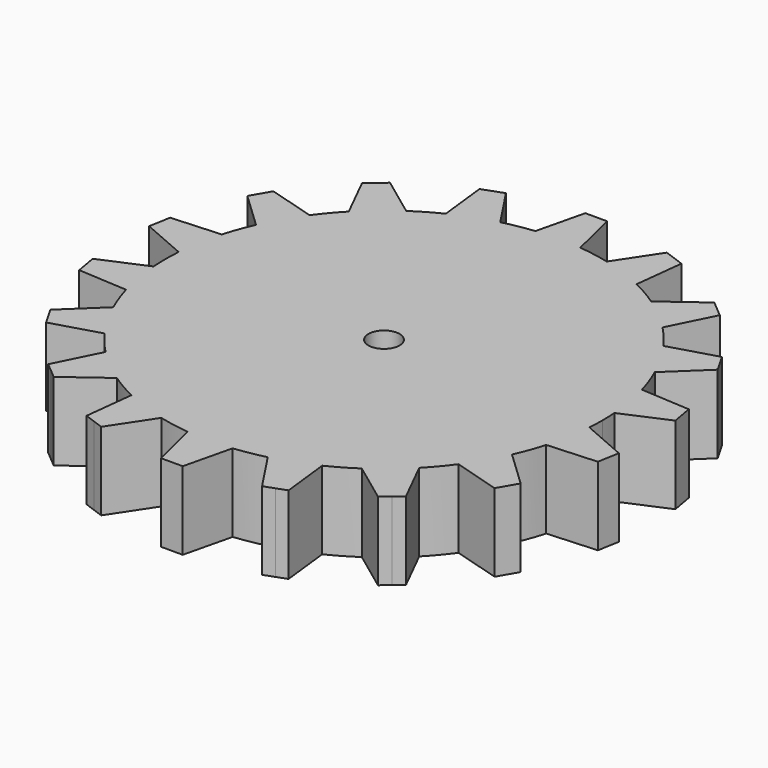
from build123d import *

# Parameters (mm, degrees)
F0_R     = 1
F1_DEPTH = 5


with BuildPart() as f1:
    # F0 (on Top) → F1 (new body)
    with BuildSketch(Plane.XY):
        with BuildLine():
            ThreePointArc((13.964093, -1.002049), (13.99102, -0.501346), (14, 0))
            ThreePointArc((14, 0), (13.99102, 0.501346), (13.964093, 1.002049))
            ThreePointArc((13.964093, 1.002049), (13.787309, 2.431074), (13.464676, 3.834383))
            ThreePointArc((13.464676, 3.834383), (13.155697, 4.788282), (12.779234, 5.717619))
            ThreePointArc((12.779234, 5.717619), (12.124356, 7), (11.341221, 8.208332))
            ThreePointArc((11.341221, 8.208332), (10.724622, 8.999027), (10.053011, 9.74356))
            ThreePointArc((10.053011, 9.74356), (8.999027, 10.724622), (7.849846, 11.592235))
            ThreePointArc((7.849846, 11.592235), (7, 12.124356), (6.114247, 12.594284))
            ThreePointArc((6.114247, 12.594284), (4.788282, 13.155697), (3.411665, 13.577943))
            ThreePointArc((3.411665, 13.577943), (2.431074, 13.787309), (1.438014, 13.925951))
            ThreePointArc((1.438014, 13.925951), (0, 14), (-1.438014, 13.925951))
            ThreePointArc((-1.438014, 13.925951), (-2.431074, 13.787309), (-3.411665, 13.577943))
            ThreePointArc((-3.411665, 13.577943), (-4.788282, 13.155697), (-6.114247, 12.594284))
            ThreePointArc((-6.114247, 12.594284), (-7, 12.124356), (-7.849846, 11.592235))
            ThreePointArc((-7.849846, 11.592235), (-8.999027, 10.724622), (-10.053011, 9.74356))
            ThreePointArc((-10.053011, 9.74356), (-10.724622, 8.999027), (-11.341221, 8.208332))
            ThreePointArc((-11.341221, 8.208332), (-12.124356, 7), (-12.779234, 5.717619))
            ThreePointArc((-12.779234, 5.717619), (-13.155697, 4.788282), (-13.464676, 3.834383))
            ThreePointArc((-13.464676, 3.834383), (-13.787309, 2.431074), (-13.964093, 1.002049))
            ThreePointArc((-13.964093, 1.002049), (-14, 0), (-13.964093, -1.002049))
            ThreePointArc((-13.964093, -1.002049), (-13.787309, -2.431074), (-13.464676, -3.834383))
            ThreePointArc((-13.464676, -3.834383), (-13.155697, -4.788282), (-12.779234, -5.717619))
            ThreePointArc((-12.779234, -5.717619), (-12.124356, -7), (-11.341221, -8.208332))
            ThreePointArc((-11.341221, -8.208332), (-10.724622, -8.999027), (-10.053011, -9.74356))
            ThreePointArc((-10.053011, -9.74356), (-8.999027, -10.724622), (-7.849846, -11.592235))
            ThreePointArc((-7.849846, -11.592235), (-7, -12.124356), (-6.114247, -12.594284))
            ThreePointArc((-6.114247, -12.594284), (-4.788282, -13.155697), (-3.411665, -13.577943))
            ThreePointArc((-3.411665, -13.577943), (-2.431074, -13.787309), (-1.438014, -13.925951))
            ThreePointArc((-1.438014, -13.925951), (0, -14), (1.438014, -13.925951))
            ThreePointArc((1.438014, -13.925951), (2.431074, -13.787309), (3.411665, -13.577943))
            ThreePointArc((3.411665, -13.577943), (4.788282, -13.155697), (6.114247, -12.594284))
            ThreePointArc((6.114247, -12.594284), (7, -12.124356), (7.849846, -11.592235))
            ThreePointArc((7.849846, -11.592235), (8.999027, -10.724622), (10.053011, -9.74356))
            ThreePointArc((10.053011, -9.74356), (10.724622, -8.999027), (11.341221, -8.208332))
            ThreePointArc((11.341221, -8.208332), (12.124356, -7), (12.779234, -5.717619))
            ThreePointArc((12.779234, -5.717619), (13.155697, -4.788282), (13.464676, -3.834383))
            ThreePointArc((13.464676, -3.834383), (13.787309, -2.431074), (13.964093, -1.002049))
        make_face()
        Circle(F0_R, mode=Mode.SUBTRACT)
        with BuildLine():
            Line((15.072432, -7.893782), (12.779234, -5.717619))
            ThreePointArc((12.779234, -5.717619), (12.124356, -7), (11.341221, -8.208332))
            Line((11.341221, -8.208332), (14.372432, -9.106218))
            Line((14.372432, -9.106218), (14.722432, -8.5))
            Line((14.722432, -8.5), (15.072432, -7.893782))
        make_face()
        with BuildLine():
            Line((0.7, -17), (1.438014, -13.925951))
            ThreePointArc((1.438014, -13.925951), (0, -14), (-1.438014, -13.925951))
            Line((-1.438014, -13.925951), (-0.7, -17))
            Line((-0.7, -17), (0, -17))
            Line((0, -17), (0.7, -17))
        make_face()
        with BuildLine():
            Line((-10.391158, -13.472707), (-7.849846, -11.592235))
            ThreePointArc((-7.849846, -11.592235), (-8.999027, -10.724622), (-10.053011, -9.74356))
            Line((-10.053011, -9.74356), (-11.46362, -12.572804))
            Line((-11.46362, -12.572804), (-10.927389, -13.022756))
            Line((-10.927389, -13.022756), (-10.391158, -13.472707))
        make_face()
        with BuildLine():
            Line((11.46362, -12.572804), (10.053011, -9.74356))
            ThreePointArc((10.053011, -9.74356), (8.999027, -10.724622), (7.849846, -11.592235))
            Line((7.849846, -11.592235), (10.391158, -13.472707))
            Line((10.391158, -13.472707), (10.927389, -13.022756))
            Line((10.927389, -13.022756), (11.46362, -12.572804))
        make_face()
        with BuildLine():
            Line((-5.156558, -16.214189), (-3.411665, -13.577943))
            ThreePointArc((-3.411665, -13.577943), (-4.788282, -13.155697), (-6.114247, -12.594284))
            Line((-6.114247, -12.594284), (-6.472127, -15.73536))
            Line((-6.472127, -15.73536), (-5.814342, -15.974775))
            Line((-5.814342, -15.974775), (-5.156558, -16.214189))
        make_face()
        with BuildLine():
            ThreePointArc((13.464676, 3.834383), (13.787309, 2.431074), (13.964093, 1.002049))
            Line((13.964093, 1.002049), (16.863286, 2.262654))
            Line((16.863286, 2.262654), (16.741732, 2.952019))
            Line((16.741732, 2.952019), (16.620178, 3.641384))
            Line((16.620178, 3.641384), (13.464676, 3.834383))
        make_face()
        with BuildLine():
            Line((16.863286, -2.262654), (13.964093, -1.002049))
            ThreePointArc((13.964093, -1.002049), (13.787309, -2.431074), (13.464676, -3.834383))
            Line((13.464676, -3.834383), (16.620178, -3.641384))
            Line((16.620178, -3.641384), (16.741732, -2.952019))
            Line((16.741732, -2.952019), (16.863286, -2.262654))
        make_face()
        with BuildLine():
            Line((6.472127, -15.73536), (6.114247, -12.594284))
            ThreePointArc((6.114247, -12.594284), (4.788282, -13.155697), (3.411665, -13.577943))
            Line((3.411665, -13.577943), (5.156558, -16.214189))
            Line((5.156558, -16.214189), (5.814342, -15.974775))
            Line((5.814342, -15.974775), (6.472127, -15.73536))
        make_face()
        with BuildLine():
            ThreePointArc((-1.438014, 13.925951), (0, 14), (1.438014, 13.925951))
            Line((1.438014, 13.925951), (0.7, 17))
            Line((0.7, 17), (0, 17))
            Line((0, 17), (-0.7, 17))
            Line((-0.7, 17), (-1.438014, 13.925951))
        make_face()
        with BuildLine():
            ThreePointArc((3.411665, 13.577943), (4.788282, 13.155697), (6.114247, 12.594284))
            Line((6.114247, 12.594284), (6.472127, 15.73536))
            Line((6.472127, 15.73536), (5.814342, 15.974775))
            Line((5.814342, 15.974775), (5.156558, 16.214189))
            Line((5.156558, 16.214189), (3.411665, 13.577943))
        make_face()
        with BuildLine():
            ThreePointArc((11.341221, 8.208332), (12.124356, 7), (12.779234, 5.717619))
            Line((12.779234, 5.717619), (15.072432, 7.893782))
            Line((15.072432, 7.893782), (14.722432, 8.5))
            Line((14.722432, 8.5), (14.372432, 9.106218))
            Line((14.372432, 9.106218), (11.341221, 8.208332))
        make_face()
        with BuildLine():
            ThreePointArc((-6.114247, 12.594284), (-4.788282, 13.155697), (-3.411665, 13.577943))
            Line((-3.411665, 13.577943), (-5.156558, 16.214189))
            Line((-5.156558, 16.214189), (-5.814342, 15.974775))
            Line((-5.814342, 15.974775), (-6.472127, 15.73536))
            Line((-6.472127, 15.73536), (-6.114247, 12.594284))
        make_face()
        with BuildLine():
            ThreePointArc((-12.779234, 5.717619), (-12.124356, 7), (-11.341221, 8.208332))
            Line((-11.341221, 8.208332), (-14.372432, 9.106218))
            Line((-14.372432, 9.106218), (-14.722432, 8.5))
            Line((-14.722432, 8.5), (-15.072432, 7.893782))
            Line((-15.072432, 7.893782), (-12.779234, 5.717619))
        make_face()
        with BuildLine():
            ThreePointArc((7.849846, 11.592235), (8.999027, 10.724622), (10.053011, 9.74356))
            Line((10.053011, 9.74356), (11.46362, 12.572804))
            Line((11.46362, 12.572804), (10.927389, 13.022756))
            Line((10.927389, 13.022756), (10.391158, 13.472707))
            Line((10.391158, 13.472707), (7.849846, 11.592235))
        make_face()
        with BuildLine():
            ThreePointArc((-10.053011, 9.74356), (-8.999027, 10.724622), (-7.849846, 11.592235))
            Line((-7.849846, 11.592235), (-10.391158, 13.472707))
            Line((-10.391158, 13.472707), (-10.927389, 13.022756))
            Line((-10.927389, 13.022756), (-11.46362, 12.572804))
            Line((-11.46362, 12.572804), (-10.053011, 9.74356))
        make_face()
        with BuildLine():
            ThreePointArc((-13.964093, 1.002049), (-13.787309, 2.431074), (-13.464676, 3.834383))
            Line((-13.464676, 3.834383), (-16.620178, 3.641384))
            Line((-16.620178, 3.641384), (-16.741732, 2.952019))
            Line((-16.741732, 2.952019), (-16.863286, 2.262654))
            Line((-16.863286, 2.262654), (-13.964093, 1.002049))
        make_face()
        with BuildLine():
            Line((-16.620178, -3.641384), (-13.464676, -3.834383))
            ThreePointArc((-13.464676, -3.834383), (-13.787309, -2.431074), (-13.964093, -1.002049))
            Line((-13.964093, -1.002049), (-16.863286, -2.262654))
            Line((-16.863286, -2.262654), (-16.741732, -2.952019))
            Line((-16.741732, -2.952019), (-16.620178, -3.641384))
        make_face()
        with BuildLine():
            Line((-14.372432, -9.106218), (-11.341221, -8.208332))
            ThreePointArc((-11.341221, -8.208332), (-12.124356, -7), (-12.779234, -5.717619))
            Line((-12.779234, -5.717619), (-15.072432, -7.893782))
            Line((-15.072432, -7.893782), (-14.722432, -8.5))
            Line((-14.722432, -8.5), (-14.372432, -9.106218))
        make_face()
    extrude(amount=F1_DEPTH)


solid = f1.part
